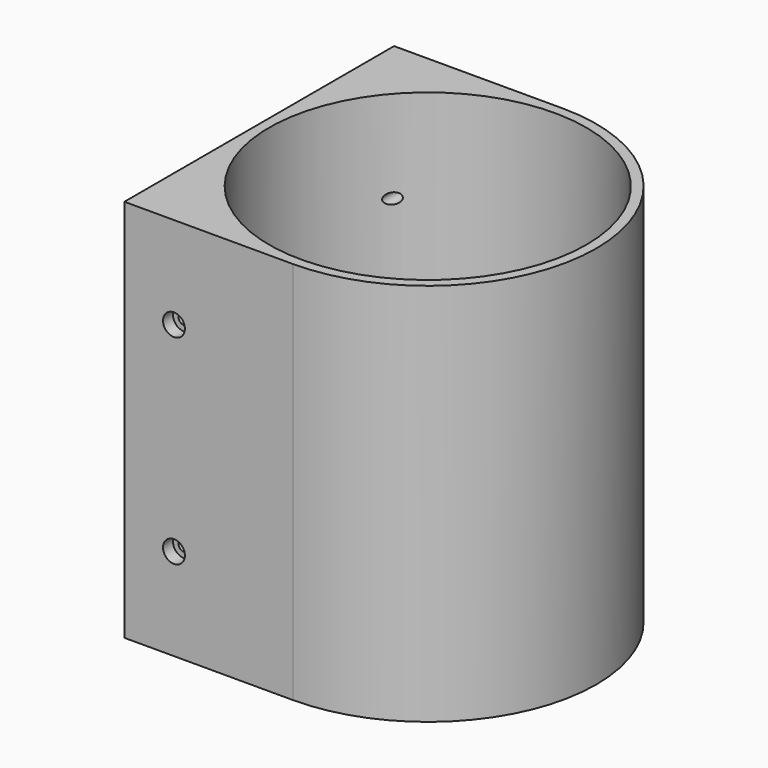
from build123d import *

# Parameters (mm, degrees)
F0_R     = 50.8
F1_DEPTH = 61.468
F2_R     = 1.7399
F3_DEPTH = 304.8
F4_R     = 3.5
F5_DEPTH = 4
F6_R     = 3.5
F7_DEPTH = 4


with BuildPart() as f1:
    # F0 (on Top) → F1 (new body, symmetric)
    with BuildSketch(Plane.XY):
        with BuildLine():
            Line((-53.975, -53.975), (0, -53.975))
            ThreePointArc((0, -53.975), (53.975, 0), (0, 53.975))
            Line((0, 53.975), (-53.975, 53.975))
            Line((-53.975, 53.975), (-53.975, -53.975))
        make_face()
        Circle(F0_R, mode=Mode.SUBTRACT)
    extrude(amount=F1_DEPTH, both=True)

    # F2 (on face) → F3 (cut)
    with BuildSketch(Plane(origin=(0, 53.975, 0), x_dir=(-1, 0, 0), z_dir=(0, 1, 0))):
        with Locations((38.1, 31.9659)):
            Circle(F2_R)
        with Locations((38.1, -31.9659)):
            Circle(F2_R)
    extrude(amount=-F3_DEPTH, mode=Mode.SUBTRACT)

    # F4 (on face) → F5 (cut)
    with BuildSketch(Plane.XZ.offset(53.975)):
        with Locations((-38.1, 31.9659)):
            Circle(F4_R)
        with Locations((-38.1, -31.9659)):
            Circle(F4_R)
    extrude(amount=-F5_DEPTH, mode=Mode.SUBTRACT)

    # F6 (on face) → F7 (cut)
    with BuildSketch(Plane(origin=(0, 53.975, 0), x_dir=(-1, 0, 0), z_dir=(0, 1, 0))):
        with Locations((38.1, 31.9659)):
            Circle(F6_R)
        with Locations((38.1, -31.9659)):
            Circle(F6_R)
    extrude(amount=-F7_DEPTH, mode=Mode.SUBTRACT)


solid = f1.part
